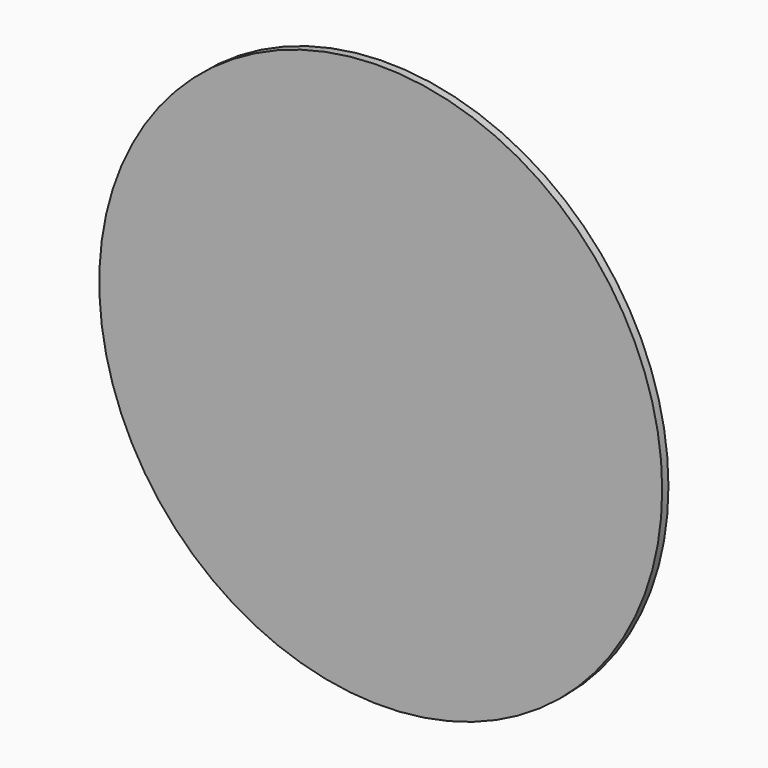
from build123d import *

# Parameters (mm, degrees)
F0_R      = 457.2
F1_DEPTH  = 25.4
F1_FACE_R = 457.2
F2_DEPTH  = 12.7


with BuildPart() as f1:
    # F0 (on Front) → F1 (new body)
    with BuildSketch(Plane.XZ):
        Circle(F0_R)
    extrude(amount=F1_DEPTH)

    # F1_face (on face) → F2 (cut)
    with BuildSketch(Plane.XZ.offset(25.4)):
        Circle(F1_FACE_R)
    extrude(amount=-F2_DEPTH, mode=Mode.SUBTRACT)


solid = f1.part
